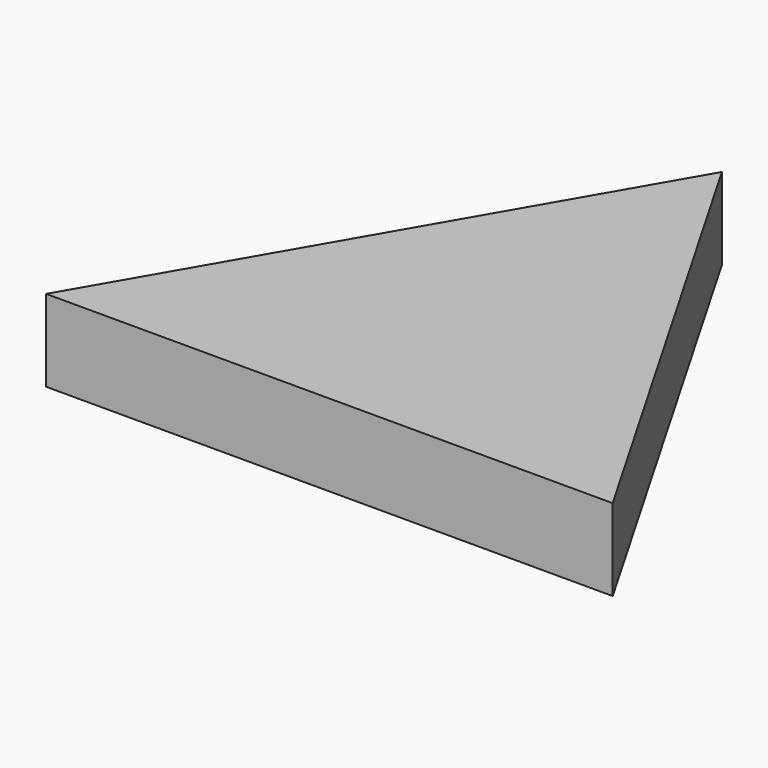
from build123d import *

# Parameters (mm, degrees)
PAD_DEPTH = 10


with BuildPart() as part:
    # Sketch → Pad (new body)
    with BuildSketch(Plane.XY):
        Polygon((0, 30), (-34.641016, -30), (34.641016, -30), align=None)
    extrude(amount=PAD_DEPTH)


solid = part.part
